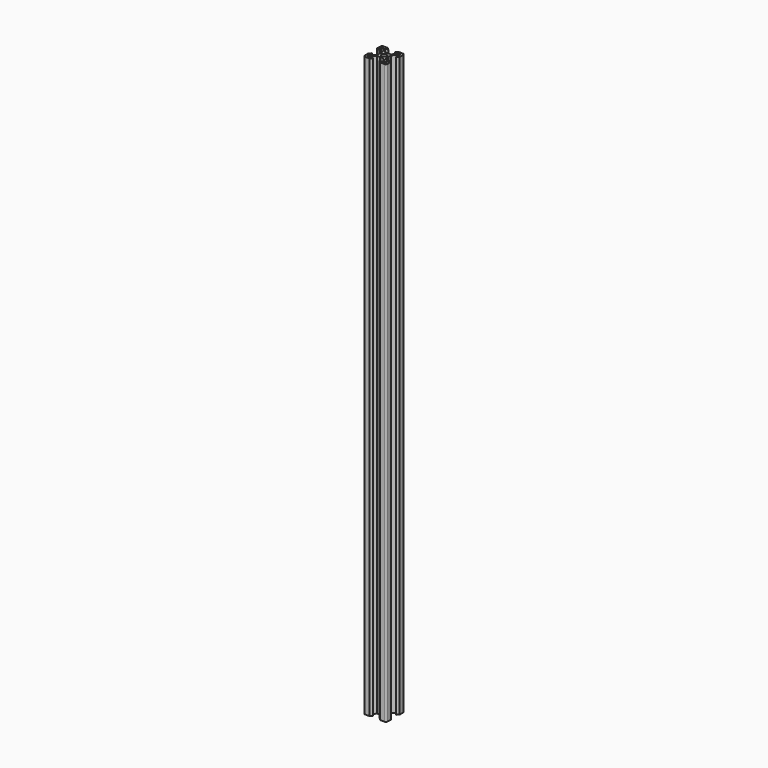
from build123d import *

# Parameters (mm, degrees)
F0_R     = 2.1
F1_DEPTH = 505


with BuildPart() as f1:
    # F0 (on Top) → F1 (new body)
    with BuildSketch(Plane.XY):
        with BuildLine():
            Line((10, 4.64), (10, 8.5))
            ThreePointArc((10, 8.5), (9.56066, 9.56066), (8.5, 10))
            Line((8.5, 10), (4.64, 10))
            Line((4.64, 10), (2.84, 8.2))
            Line((2.84, 8.2), (5.49934, 8.2))
            Line((5.49934, 8.2), (5.49934, 6.56))
            Line((5.49934, 6.56), (2.84, 3.90066))
            Line((2.84, 3.90066), (0.25, 3.90066))
            Line((0.25, 3.90066), (0, 3.65066))
            Line((0, 3.65066), (-0.25, 3.90066))
            Line((-0.25, 3.90066), (-2.84, 3.90066))
            Line((-2.84, 3.90066), (-5.49934, 6.56))
            Line((-5.49934, 6.56), (-5.49934, 8.2))
            Line((-5.49934, 8.2), (-2.84, 8.2))
            Line((-2.84, 8.2), (-4.64, 10))
            Line((-4.64, 10), (-8.5, 10))
            ThreePointArc((-8.5, 10), (-9.56066, 9.56066), (-10, 8.5))
            Line((-10, 8.5), (-10, 4.64))
            Line((-10, 4.64), (-8.2, 2.84))
            Line((-8.2, 2.84), (-8.2, 5.49934))
            Line((-8.2, 5.49934), (-6.56, 5.49934))
            Line((-6.56, 5.49934), (-3.90066, 2.84))
            Line((-3.90066, 2.84), (-3.90066, 0.25))
            Line((-3.90066, 0.25), (-3.65066, 0))
            Line((-3.65066, 0), (-3.90066, -0.25))
            Line((-3.90066, -0.25), (-3.90066, -2.84))
            Line((-3.90066, -2.84), (-6.56, -5.49934))
            Line((-6.56, -5.49934), (-8.2, -5.49934))
            Line((-8.2, -5.49934), (-8.2, -2.84))
            Line((-8.2, -2.84), (-10, -4.64))
            Line((-10, -4.64), (-10, -8.5))
            ThreePointArc((-10, -8.5), (-9.56066, -9.56066), (-8.5, -10))
            Line((-8.5, -10), (-4.64, -10))
            Line((-4.64, -10), (-2.84, -8.2))
            Line((-2.84, -8.2), (-5.49934, -8.2))
            Line((-5.49934, -8.2), (-5.49934, -6.56))
            Line((-5.49934, -6.56), (-2.84, -3.90066))
            Line((-2.84, -3.90066), (-0.25, -3.90066))
            Line((-0.25, -3.90066), (0, -3.65066))
            Line((0, -3.65066), (0.25, -3.90066))
            Line((0.25, -3.90066), (2.84, -3.90066))
            Line((2.84, -3.90066), (5.49934, -6.56))
            Line((5.49934, -6.56), (5.49934, -8.2))
            Line((5.49934, -8.2), (2.84, -8.2))
            Line((2.84, -8.2), (4.64, -10))
            Line((4.64, -10), (8.5, -10))
            ThreePointArc((8.5, -10), (9.56066, -9.56066), (10, -8.5))
            Line((10, -8.5), (10, -4.64))
            Line((10, -4.64), (8.2, -2.84))
            Line((8.2, -2.84), (8.2, -5.49934))
            Line((8.2, -5.49934), (6.56, -5.49934))
            Line((6.56, -5.49934), (3.90066, -2.84))
            Line((3.90066, -2.84), (3.90066, -0.25))
            Line((3.90066, -0.25), (3.65066, 0))
            Line((3.65066, 0), (3.90066, 0.25))
            Line((3.90066, 0.25), (3.90066, 2.84))
            Line((3.90066, 2.84), (6.56, 5.49934))
            Line((6.56, 5.49934), (8.2, 5.49934))
            Line((8.2, 5.49934), (8.2, 2.84))
            Line((8.2, 2.84), (10, 4.64))
        make_face()
        Polygon((-6.56934, -7.63), (-6.56934, -8.2), (-8.2, -8.2), (-8.2, -6.56934), (-7.63, -6.56934), align=None, mode=Mode.SUBTRACT)
        Polygon((8.2, -8.2), (6.56934, -8.2), (6.56934, -7.63), (7.63, -6.56934), (8.2, -6.56934), align=None, mode=Mode.SUBTRACT)
        Polygon((-7.63, 6.56934), (-8.2, 6.56934), (-8.2, 8.2), (-6.56934, 8.2), (-6.56934, 7.63), align=None, mode=Mode.SUBTRACT)
        Circle(F0_R, mode=Mode.SUBTRACT)
        Polygon((6.56934, 7.63), (6.56934, 8.2), (8.2, 8.2), (8.2, 6.56934), (7.63, 6.56934), align=None, mode=Mode.SUBTRACT)
    extrude(amount=F1_DEPTH)


solid = f1.part
